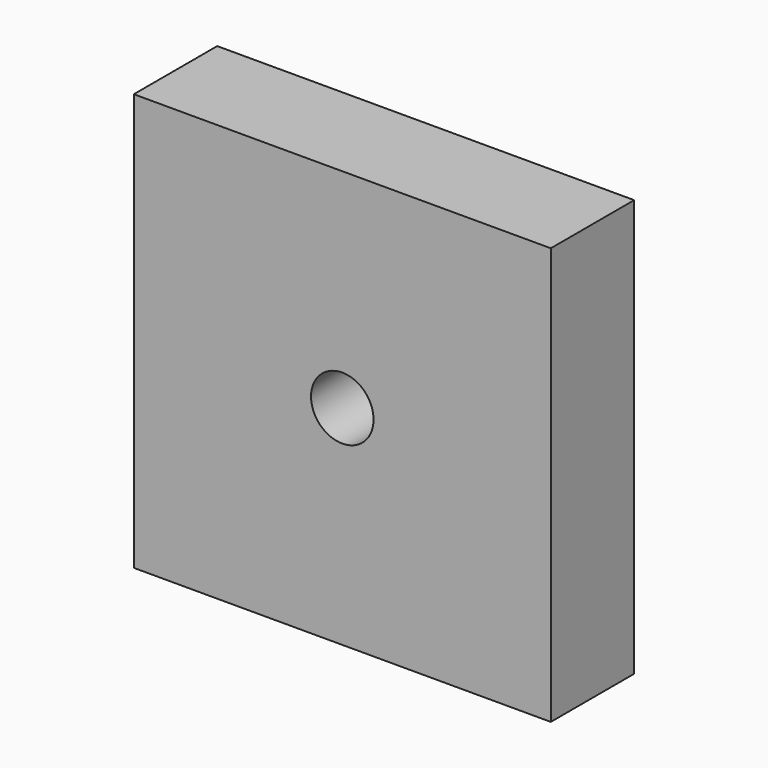
from build123d import *

# Parameters (mm, degrees)
F0_W     = 100
F0_H     = 100
F1_DEPTH = 25
F3_D     = 15


with BuildPart() as f1:
    # F0 (on Front) → F1 (new body)
    with BuildSketch(Plane.XZ):
        Rectangle(F0_W, F0_H)
    extrude(amount=F1_DEPTH)

    # F3 (through all)
    with Locations(Plane.XZ.offset(25)):
        with Locations((0, 0)):
            Hole(F3_D / 2)


solid = f1.part
